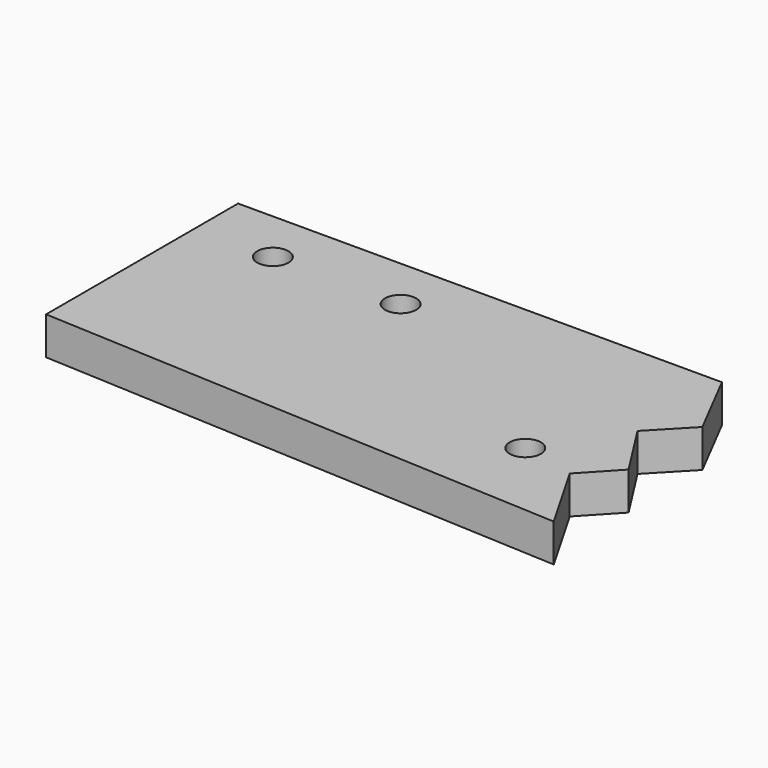
from build123d import *

# Parameters (mm, degrees)
F0_R     = 2.0955
F1_DEPTH = 5.08


with BuildPart() as f1:
    # F0 (on Top) → F1 (new body)
    with BuildSketch(Plane.XY):
        Polygon((64.9224, 0), (0, 0), (0, -32.2072), (70.903726, -35.692059), (65.407641, -26.13994), (69.666304, -21.585459), (64.9224, -14.160932), (69.666304, -9.211248), align=None)
        with Locations((58.166, -24.5364)):
            Circle(F0_R, mode=Mode.SUBTRACT)
        with Locations((10.414, -7.1882)):
            Circle(F0_R, mode=Mode.SUBTRACT)
        with Locations((27.559, -7.1882)):
            Circle(F0_R, mode=Mode.SUBTRACT)
    extrude(amount=F1_DEPTH)


solid = f1.part
